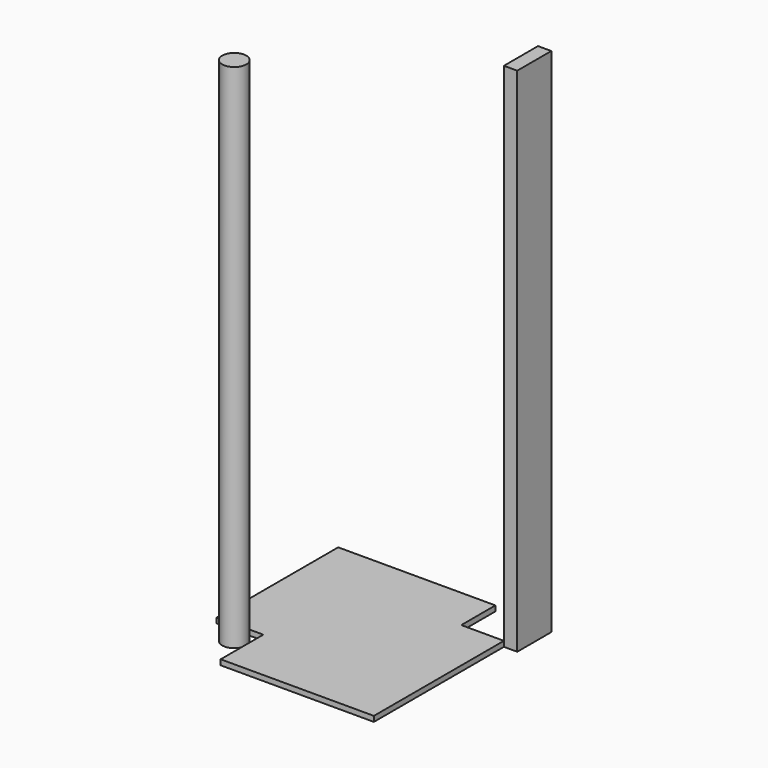
from build123d import *

# Parameters (mm, degrees)
F0_W     = 63.5
F0_H     = 203.2
F0_R     = 57.15
F1_DEPTH = 2438.4
F2_DEPTH = 25.4


with BuildPart() as f1:
    # F0 (on Top) → F1 (new body)
    with BuildSketch(Plane.XY):
        with Locations((467.43695, 451.280336)):
            Rectangle(F0_W, F0_H)
        with Locations((-377.11305, -240.869664)):
            Circle(F0_R)
    extrude(amount=F1_DEPTH)


with BuildPart() as f2:
    # F0 (on Top) → F2 (new body)
    with BuildSketch(Plane.XY):
        Polygon((232.48695, 552.880336), (-516.81305, 552.880336), (-516.81305, -171.019664), (-294.56305, -171.019664), (-294.56305, -425.019664), (435.68695, -425.019664), (435.68695, 349.680336), (232.48695, 349.680336), align=None)
    extrude(amount=F2_DEPTH)


solid = Compound([f1.part, f2.part])
